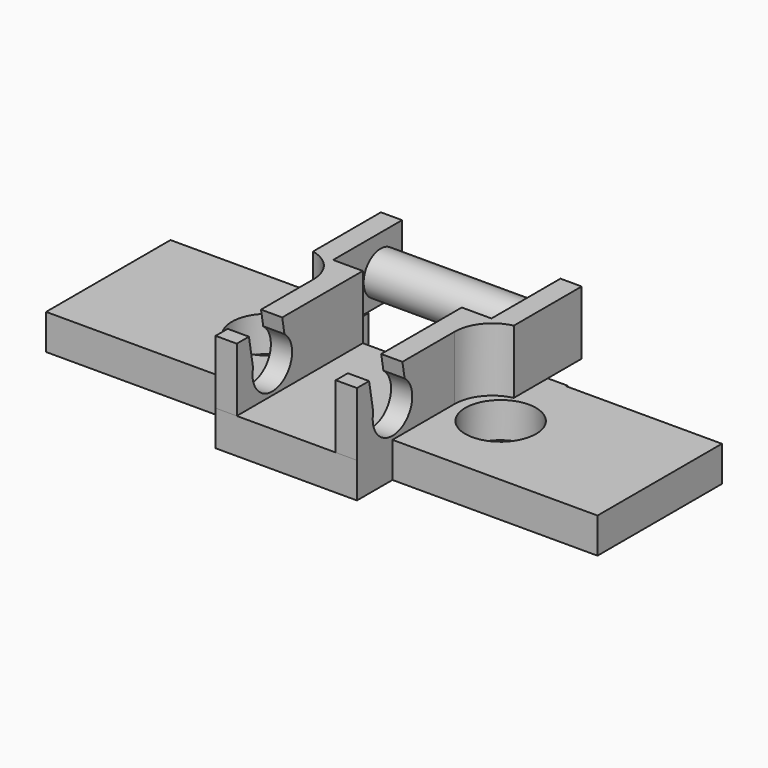
from build123d import *

# Parameters (mm, degrees)
SKETCH_R     = 2.5
PAD_DEPTH    = 2.5
PAD001_DEPTH = 4.5
SKETCH002_R  = 1.5
PAD002_DEPTH = 14.2
POCKET_DEPTH = 10


with BuildPart() as part:
    # Sketch → Pad (new body)
    with BuildSketch(Plane.XY):
        Polygon((19.5, 5.5), (19.5, -5.5), (5, -5.5), (5, -8.641544), (-5, -8.641544), (-5, -5.5), (-19.5, -5.5), (-19.5, 5.5), (-8.5, 5.5), (-8.5, 5.6), (-5.6, 5.6), (-5.6, 5.5), (-5.5, 5.5), (-5.5, 2.5), (5.5, 2.5), (5.5, 5.5), (5.6, 5.5), (5.6, 5.6), (8.5, 5.6), (8.5, 5.5), align=None)
        with Locations((-8.25, 0)):
            Circle(SKETCH_R, mode=Mode.SUBTRACT)
        with Locations((8.25, 0)):
            Circle(SKETCH_R, mode=Mode.SUBTRACT)
    extrude(amount=PAD_DEPTH)

    # Sketch001 (on Face24 of Pad) → Pad001 (join)
    with BuildSketch(Plane.XY.offset(2.5)):
        with BuildLine():
            Line((5.6, 5.6), (5.6, 8.6))
            Line((5.6, 8.6), (7.1, 8.6))
            Line((7.1, 8.6), (7.1, 2.6))
            ThreePointArc((7.1, 2.6), (5.590571, 1.671077), (5, 0))
            Line((5, -8.641543), (5, 0))
            Line((3.5, -8.641543), (5, -8.641543))
            Line((3.5, 2.5), (3.5, -8.641543))
            Line((5.6, 2.5), (3.5, 2.5))
            Line((5.6, 5.6), (5.6, 2.5))
        make_face()
        with BuildLine():
            Line((-7.1, 8.6), (-5.6, 8.6))
            Line((-5.6, 8.6), (-5.6, 2.5))
            Line((-5.6, 2.5), (-3.5, 2.5))
            Line((-3.5, 2.5), (-3.5, -8.641543))
            Line((-3.5, -8.641543), (-5, -8.641543))
            Line((-5, -8.641543), (-5, 0))
            ThreePointArc((-5, 0), (-5.590571, 1.671077), (-7.1, 2.6))
            Line((-7.1, 2.6), (-7.1, 8.6))
        make_face()
    extrude(amount=PAD001_DEPTH)

    # Sketch002 (on Face44 of Pad001) → Pad002 (join)
    with BuildSketch(Plane.YZ.offset(7.1)):
        with Locations((6.7, 4.5)):
            Circle(SKETCH002_R)
    extrude(amount=-PAD002_DEPTH)

    # Sketch003 (on Face35 of Pad002) → Pocket (cut)
    with BuildSketch(Plane(origin=(-5, 0, 0), x_dir=(0, -1, 0), z_dir=(-1, 0, 0))):
        with BuildLine():
            ThreePointArc((4.426559, 5.882108), (4.923015, 2.847853), (7.20048, 4.913363))
            Line((7.20048, 4.913363), (7.655942, 7.49642))
            Line((4.8, 8), (7.655942, 7.49642))
            Line((4.8, 8), (4.426559, 5.882108))
        make_face()
    extrude(amount=-POCKET_DEPTH, mode=Mode.SUBTRACT)


solid = part.part
